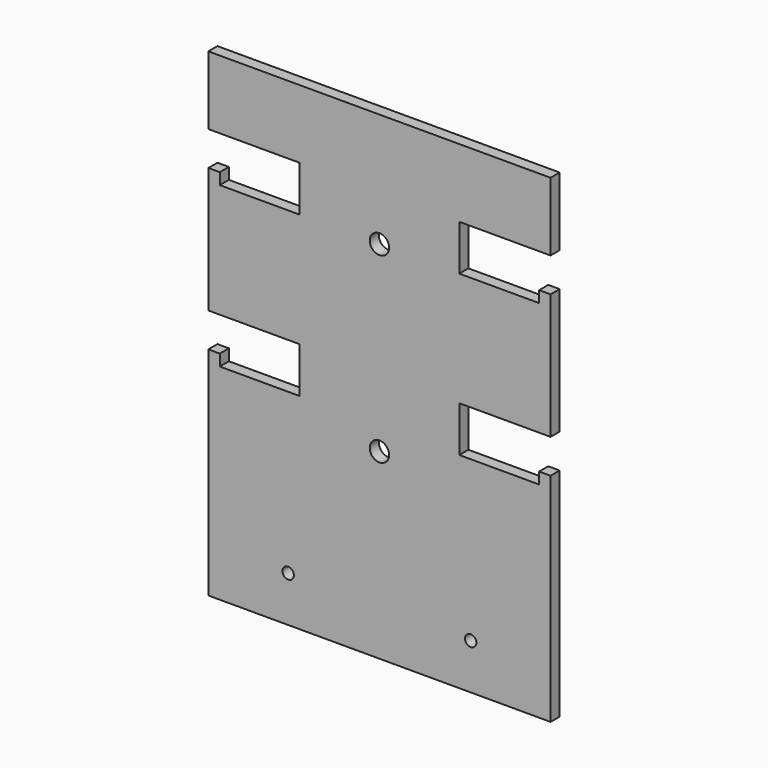
from build123d import *

# Parameters (mm, degrees)
F0_R     = 4.25
F0_R_2   = 2.5
F1_DEPTH = 5


with BuildPart() as f1:
    # F0 (on Front) → F1 (new body)
    with BuildSketch(Plane.XZ):
        Polygon((79.866218, 127.271493), (-70.133782, 127.271493), (-70.133782, 97.271493), (-30.133782, 97.271493), (-30.133782, 77.271493), (-65.133782, 77.271493), (-65.133782, 82.271493), (-70.133782, 82.271493), (-70.133782, 27.271493), (-30.133782, 27.271493), (-30.133782, 7.271493), (39.866218, 7.271493), (39.866218, 27.271493), (79.866218, 27.271493), (79.866218, 82.271493), (74.866218, 82.271493), (74.866218, 77.271493), (39.866218, 77.271493), (39.866218, 97.271493), (79.866218, 97.271493), align=None)
        with Locations((4.866218, 77.271493)):
            Circle(F0_R, mode=Mode.SUBTRACT)
        Polygon((79.866218, 127.271493), (-70.133782, 127.271493), (-70.133782, 97.271493), (-30.133782, 97.271493), (-30.133782, 77.271493), (-65.133782, 77.271493), (-65.133782, 82.271493), (-70.133782, 82.271493), (-70.133782, 27.271493), (-30.133782, 27.271493), (-30.133782, 7.271493), (39.866218, 7.271493), (39.866218, 27.271493), (79.866218, 27.271493), (79.866218, 82.271493), (74.866218, 82.271493), (74.866218, 77.271493), (39.866218, 77.271493), (39.866218, 97.271493), (79.866218, 97.271493), align=None)
        with Locations((4.866218, 77.271493)):
            Circle(F0_R, mode=Mode.SUBTRACT)
        Polygon((-65.133782, 12.271493), (-70.133782, 12.271493), (-70.133782, -82.728507), (79.866218, -82.728507), (79.866218, -12.728507), (79.866218, 12.271493), (74.866218, 12.271493), (74.866218, 7.271493), (39.866218, 7.271493), (-30.133782, 7.271493), (-65.133782, 7.271493), align=None)
        with Locations((-35.133782, -62.728507)):
            Circle(F0_R_2, mode=Mode.SUBTRACT)
        with Locations((44.866218, -62.728507)):
            Circle(F0_R_2, mode=Mode.SUBTRACT)
        with Locations((4.866218, -2.728507)):
            Circle(F0_R, mode=Mode.SUBTRACT)
        Polygon((-65.133782, 12.271493), (-70.133782, 12.271493), (-70.133782, -82.728507), (79.866218, -82.728507), (79.866218, -12.728507), (79.866218, 12.271493), (74.866218, 12.271493), (74.866218, 7.271493), (39.866218, 7.271493), (-30.133782, 7.271493), (-65.133782, 7.271493), align=None)
        with Locations((-35.133782, -62.728507)):
            Circle(F0_R_2, mode=Mode.SUBTRACT)
        with Locations((44.866218, -62.728507)):
            Circle(F0_R_2, mode=Mode.SUBTRACT)
        with Locations((4.866218, -2.728507)):
            Circle(F0_R, mode=Mode.SUBTRACT)
    extrude(amount=F1_DEPTH)


solid = f1.part
